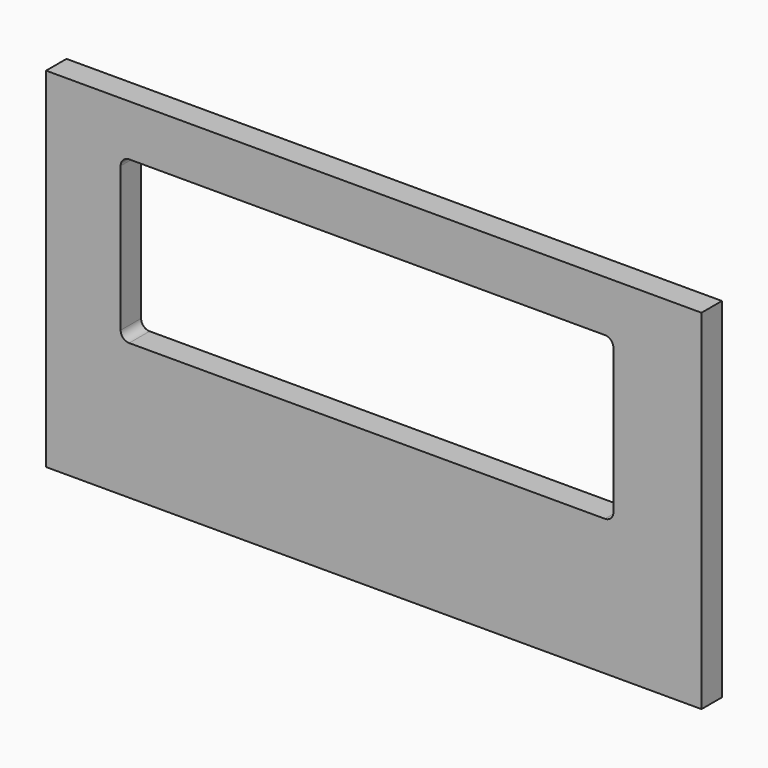
from build123d import *

# Parameters (mm, degrees)
F0_W     = 385
F0_H     = 205
F1_DEPTH = 15


with BuildPart() as f1:
    # F0 (on Front) → F1 (new body)
    with BuildSketch(Plane.XZ):
        with Locations((192.5, -102.5)):
            Rectangle(F0_W, F0_H)
        with BuildLine():
            ThreePointArc((43.81616, -35), (45.280627, -31.464466), (48.81616, -30))
            Line((48.81616, -30), (328.273739, -30))
            ThreePointArc((328.273739, -30), (331.809273, -31.464466), (333.273739, -35))
            Line((333.273739, -35), (333.273739, -120))
            ThreePointArc((333.273739, -120), (331.809273, -123.535534), (328.273739, -125))
            Line((328.273739, -125), (48.81616, -125))
            ThreePointArc((48.81616, -125), (45.280627, -123.535534), (43.81616, -120))
            Line((43.81616, -120), (43.81616, -35))
        make_face(mode=Mode.SUBTRACT)
    extrude(amount=F1_DEPTH)


solid = f1.part
